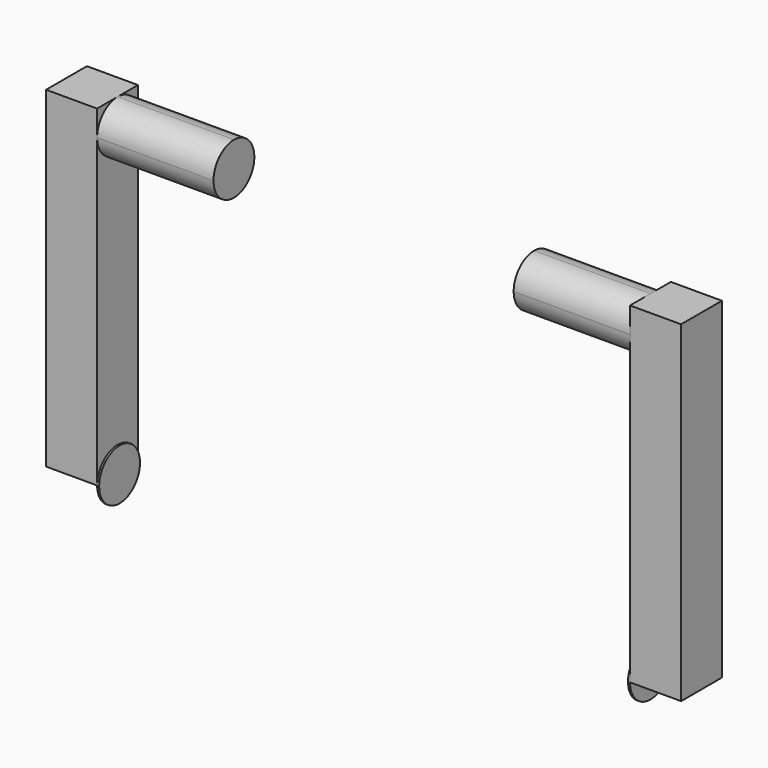
from build123d import *

# Parameters (mm, degrees)
F0_W      = 6.35
F0_H      = 41.275
F1_DEPTH  = 6.35
F3_DEPTH  = 14.478
F7_ANGLE  = 180
F9_DEPTH  = 0.254
F11_DEPTH = 0.254


with BuildPart() as f1:
    # F0 (on Front) → F1 (new body)
    with BuildSketch(Plane.XZ):
        with Locations((-23.7466770142, -10.1793586344)):
            Rectangle(F0_W, F0_H)
    extrude(amount=F1_DEPTH)

    # F2 (on face) → F3 (join)
    with BuildSketch(Plane.YZ.offset(-20.5716770142)):
        with BuildLine():
            ThreePointArc((-3.175, 10.4581413656), (-5.4200640303, 9.5282053959), (-6.35, 7.2831413656))
            ThreePointArc((-6.35, 7.2831413656), (-5.4200640303, 5.0380773354), (-3.175, 4.1081413656))
            ThreePointArc((-3.175, 4.1081413656), (-0.9299359697, 5.0380773354), (0, 7.2831413656))
            ThreePointArc((0, 7.2831413656), (-0.9299359697, 9.5282053959), (-3.175, 10.4581413656))
        make_face()
    extrude(amount=F3_DEPTH)


with BuildPart() as f4_1:
    # F4: copy of F1
    add(f1.part.moved(Location((78.994, 0, 0))))


with BuildPart() as f4_1_1:
    # F7: moved
    add(f4_1.part.rotate(Axis((52.0723229858, -3.175, -10.1793586344), (0, 0, 1)), F7_ANGLE))

    # F10 (on face) → F11 (join)
    with BuildSketch(Plane(origin=(45.7223229858, 0, 0), x_dir=(0, -1, 0), z_dir=(-1, 0, 0))):
        with BuildLine():
            ThreePointArc((6.35, -30.8168586344), (3.175, -27.6418586344), (0, -30.8168586344))
            Line((0, -30.8168586344), (6.35, -30.8168586344))
        make_face()
        with BuildLine():
            Line((6.35, -30.8168586344), (0, -30.8168586344))
            ThreePointArc((0, -30.8168586344), (0.9299359697, -33.0619226646), (3.175, -33.9918586344))
            ThreePointArc((3.175, -33.9918586344), (5.4200640303, -33.0619226646), (6.35, -30.8168586344))
        make_face()
    extrude(amount=F11_DEPTH)


with BuildPart() as f1_1:
    add(f1.part)

    # F8 (on face) → F9 (join)
    with BuildSketch(Plane.YZ.offset(-20.5716770142)):
        with BuildLine():
            Line((0, -30.8168586344), (-6.35, -30.8168586344))
            ThreePointArc((-6.35, -30.8168586344), (-5.4200640303, -33.0619226646), (-3.175, -33.9918586344))
            ThreePointArc((-3.175, -33.9918586344), (-0.9299359697, -33.0619226646), (0, -30.8168586344))
        make_face()
        with BuildLine():
            ThreePointArc((0, -30.8168586344), (-3.175, -27.6418586344), (-6.35, -30.8168586344))
            Line((-6.35, -30.8168586344), (0, -30.8168586344))
        make_face()
    extrude(amount=F9_DEPTH)


solid = Compound([f4_1_1.part, f1_1.part])
